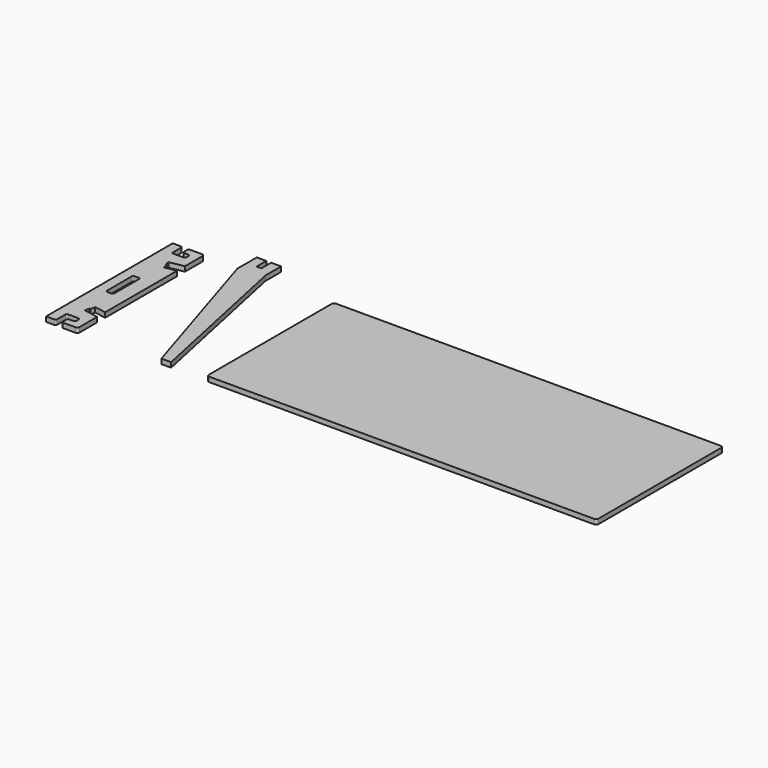
from build123d import *

# Parameters (mm, degrees)
F4_DEPTH = 20
F5_DEPTH = 20
F6_DEPTH = 20


with BuildPart() as f4:
    # F3 (on Top) → F4 (new body)
    with BuildSketch(Plane.XY):
        with BuildLine():
            Line((-589.701622963, 0), (-540.701622963, 0))
            ThreePointArc((-540.701622963, 0), (-533.6305551511, 2.9289321881), (-530.701622963, 10))
            Line((-530.701622963, 10), (-530.701622963, 100))
            Line((-530.701622963, 100), (-589.807523595, 110.319520845))
            Line((-589.807523595, 110.319520845), (-586.3676833134, 130.0214877224))
            Line((-586.3676833134, 130.0214877224), (-581.442191594, 129.1615276519))
            Line((-581.442191594, 129.1615276519), (-578.0023513124, 148.8634945293))
            Line((-578.0023513124, 148.8634945293), (-530.701622963, 140.6050829838))
            Line((-530.701622963, 140.6050829838), (-530.701622963, 509.3949170162))
            Line((-530.701622963, 509.3949170162), (-578.0023513124, 501.1365054707))
            Line((-578.0023513124, 501.1365054707), (-581.442191594, 520.8384723481))
            Line((-581.442191594, 520.8384723481), (-586.3676833134, 519.9785122776))
            Line((-586.3676833134, 519.9785122776), (-589.807523595, 539.680479155))
            Line((-589.807523595, 539.680479155), (-530.701622963, 550))
            Line((-530.701622963, 550), (-530.701622963, 640))
            ThreePointArc((-530.701622963, 640), (-533.6305551511, 647.0710678119), (-540.701622963, 650))
            Line((-540.701622963, 650), (-589.701622963, 650))
            ThreePointArc((-589.701622963, 650), (-593.9442636501, 648.2426406871), (-595.701622963, 644))
            Line((-595.701622963, 644), (-595.701622963, 626))
            ThreePointArc((-595.701622963, 626), (-593.9442636501, 621.7573593129), (-589.701622963, 620))
            Line((-589.701622963, 620), (-571.701622963, 620))
            ThreePointArc((-571.701622963, 620), (-567.4589822758, 618.2426406871), (-565.701622963, 614))
            Line((-565.701622963, 614), (-565.701622963, 601))
            ThreePointArc((-565.701622963, 601), (-567.4589822758, 596.7573593129), (-571.701622963, 595))
            Line((-571.701622963, 595), (-614.701622963, 595))
            ThreePointArc((-614.701622963, 595), (-618.9442636501, 596.7573593129), (-620.701622963, 601))
            Line((-620.701622963, 601), (-620.701622963, 644))
            ThreePointArc((-620.701622963, 644), (-622.4589822758, 648.2426406871), (-626.701622963, 650))
            Line((-626.701622963, 650), (-660.701622963, 650))
            Line((-660.701622963, 650), (-660.701622963, 0))
            Line((-660.701622963, 0), (-626.701622963, 0))
            ThreePointArc((-626.701622963, 0), (-622.4589822758, 1.7573593129), (-620.701622963, 6))
            Line((-620.701622963, 6), (-620.701622963, 49))
            ThreePointArc((-620.701622963, 49), (-618.9442636501, 53.2426406871), (-614.701622963, 55))
            Line((-614.701622963, 55), (-571.701622963, 55))
            ThreePointArc((-571.701622963, 55), (-567.4589822758, 53.2426406871), (-565.701622963, 49))
            Line((-565.701622963, 49), (-565.701622963, 36))
            ThreePointArc((-565.701622963, 36), (-567.4589822758, 31.7573593129), (-571.701622963, 30))
            Line((-571.701622963, 30), (-589.701622963, 30))
            ThreePointArc((-589.701622963, 30), (-593.9442636501, 28.2426406871), (-595.701622963, 24))
            Line((-595.701622963, 24), (-595.701622963, 6))
            ThreePointArc((-595.701622963, 6), (-593.9442636501, 1.7573593129), (-589.701622963, 0))
        make_face()
        with BuildLine():
            Line((-595.7902641296, 255), (-613.7902641296, 255))
            ThreePointArc((-613.7902641296, 255), (-618.0329048168, 256.7573593129), (-619.7902641296, 261))
            Line((-619.7902641296, 261), (-619.7902641296, 325))
            Line((-619.7902641296, 325), (-619.7902641296, 389))
            ThreePointArc((-619.7902641296, 389), (-618.0329048168, 393.2426406871), (-613.7902641296, 395))
            Line((-613.7902641296, 395), (-595.7902641296, 395))
            ThreePointArc((-595.7902641296, 395), (-591.5476234425, 393.2426406871), (-589.7902641296, 389))
            Line((-589.7902641296, 389), (-589.7902641296, 325))
            Line((-589.7902641296, 325), (-589.7902641296, 261))
            ThreePointArc((-589.7902641296, 261), (-591.5476234425, 256.7573593129), (-595.7902641296, 255))
        make_face(mode=Mode.SUBTRACT)
    extrude(amount=F4_DEPTH)


with BuildPart() as f5:
    # F2 (on Top) → F5 (new body)
    with BuildSketch(Plane.XY):
        Polygon((-188.9841258526, 2.0980232812), (-148.9841258526, 2.0980232812), (-288.9841258526, 662.0980232812), (-288.9841258526, 742.0980232812), (-329.9841258526, 742.0980232812), (-329.9841258526, 692.0980232812), (-349.9841258526, 692.0980232812), (-349.9841258526, 742.0980232812), (-388.9841258526, 742.0980232812), (-388.9841258526, 642.0980232812), align=None)
        Polygon((-188.9841258526, 2.0980232812), (-148.9841258526, 2.0980232812), (-288.9841258526, 662.0980232812), (-288.9841258526, 742.0980232812), (-329.9841258526, 742.0980232812), (-329.9841258526, 692.0980232812), (-349.9841258526, 692.0980232812), (-349.9841258526, 742.0980232812), (-388.9841258526, 742.0980232812), (-388.9841258526, 642.0980232812), align=None)
    extrude(amount=F5_DEPTH)


with BuildPart() as f6:
    # F1 (on Top) → F6 (new body)
    with BuildSketch(Plane.XY):
        with BuildLine():
            ThreePointArc((0, 10), (2.9289321881, 2.9289321881), (10, 0))
            Line((10, 0), (1590, 0))
            ThreePointArc((1590, 0), (1597.0710678119, 2.9289321881), (1600, 10))
            Line((1600, 10), (1600, 640))
            ThreePointArc((1600, 640), (1597.0710678119, 647.0710678119), (1590, 650))
            Line((1590, 650), (10, 650))
            ThreePointArc((10, 650), (2.9289321881, 647.0710678119), (0, 640))
            Line((0, 640), (0, 10))
        make_face()
        with BuildLine():
            Line((50, 311), (50, 339))
            ThreePointArc((50, 339), (51.7573593129, 343.2426406871), (56, 345))
            Line((56, 345), (244, 345))
            ThreePointArc((244, 345), (248.2426406871, 343.2426406871), (250, 339))
            Line((250, 339), (250, 311))
            ThreePointArc((250, 311), (248.2426406871, 306.7573593129), (244, 305))
            Line((244, 305), (56, 305))
            ThreePointArc((56, 305), (51.7573593129, 306.7573593129), (50, 311))
        make_face(mode=Mode.SUBTRACT)
        with BuildLine():
            ThreePointArc((1550, 311), (1548.2426406871, 306.7573593129), (1544, 305))
            Line((1544, 305), (1356, 305))
            ThreePointArc((1356, 305), (1351.7573593129, 306.7573593129), (1350, 311))
            Line((1350, 311), (1350, 339))
            ThreePointArc((1350, 339), (1351.7573593129, 343.2426406871), (1356, 345))
            Line((1356, 345), (1544, 345))
            ThreePointArc((1544, 345), (1548.2426406871, 343.2426406871), (1550, 339))
            Line((1550, 339), (1550, 311))
        make_face(mode=Mode.SUBTRACT)
        with BuildLine():
            ThreePointArc((1550, 361), (1548.2426406871, 356.7573593129), (1544, 355))
            Line((1544, 355), (1356, 355))
            ThreePointArc((1356, 355), (1351.7573593129, 356.7573593129), (1350, 361))
            Line((1350, 361), (1350, 363))
            ThreePointArc((1350, 363), (1351.7573593129, 367.2426406871), (1356, 369))
            Line((1356, 369), (1544, 369))
            ThreePointArc((1544, 369), (1548.2426406871, 367.2426406871), (1550, 363))
            Line((1550, 363), (1550, 361))
        make_face(mode=Mode.SUBTRACT)
        with BuildLine():
            Line((1356, 355), (1544, 355))
            ThreePointArc((1544, 355), (1548.2426406871, 356.7573593129), (1550, 361))
            Line((1550, 361), (1550, 363))
            ThreePointArc((1550, 363), (1548.2426406871, 367.2426406871), (1544, 369))
            Line((1544, 369), (1356, 369))
            ThreePointArc((1356, 369), (1351.7573593129, 367.2426406871), (1350, 363))
            Line((1350, 363), (1350, 361))
            ThreePointArc((1350, 361), (1351.7573593129, 356.7573593129), (1356, 355))
        make_face()
        with BuildLine():
            ThreePointArc((56, 345), (51.7573593129, 343.2426406871), (50, 339))
            Line((50, 339), (50, 311))
            ThreePointArc((50, 311), (51.7573593129, 306.7573593129), (56, 305))
            Line((56, 305), (244, 305))
            ThreePointArc((244, 305), (248.2426406871, 306.7573593129), (250, 311))
            Line((250, 311), (250, 339))
            ThreePointArc((250, 339), (248.2426406871, 343.2426406871), (244, 345))
            Line((244, 345), (56, 345))
        make_face()
        with BuildLine():
            Line((1356, 305), (1544, 305))
            ThreePointArc((1544, 305), (1548.2426406871, 306.7573593129), (1550, 311))
            Line((1550, 311), (1550, 339))
            ThreePointArc((1550, 339), (1548.2426406871, 343.2426406871), (1544, 345))
            Line((1544, 345), (1356, 345))
            ThreePointArc((1356, 345), (1351.7573593129, 343.2426406871), (1350, 339))
            Line((1350, 339), (1350, 311))
            ThreePointArc((1350, 311), (1351.7573593129, 306.7573593129), (1356, 305))
        make_face()
    extrude(amount=F6_DEPTH)


solid = Compound([f4.part, f5.part, f6.part])
